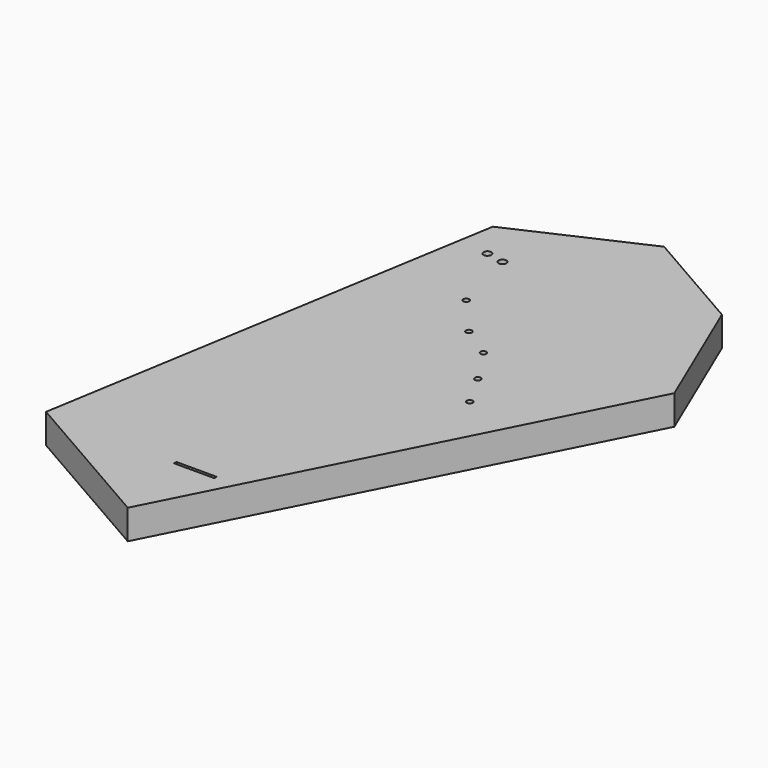
from build123d import *

# Parameters (mm, degrees)
PAD_DEPTH    = 50
SKETCH_R     = 5
SKETCH_R_2   = 6.604591
SKETCH_W     = 68
SKETCH_H     = 5
POCKET_DEPTH = 50.001


with BuildPart() as part:
    # Sketch001 → Pad (new body)
    with BuildSketch(Plane.XY):
        Polygon((21.658416, -142.396888), (380.553462, 564.152424), (289.232679, 778.86121), (108.359877, 882.789603), (-104.030099, 786.198474), (-233.87883, 4.433233), align=None)
    extrude(amount=-PAD_DEPTH)

    # Sketch (on Face7 of Pad) → Pocket (cut, through all)
    with BuildSketch(Plane.XY):
        with Locations((0, 600)):
            Circle(SKETCH_R)
        with Locations((58.588821, 532.512666)):
            Circle(SKETCH_R)
        with Locations((111.61367, 496.881813)):
            Circle(SKETCH_R)
        with Locations((152.341802, 434.193515)):
            Circle(SKETCH_R)
        with Locations((184.96974, 376.321267)):
            Circle(SKETCH_R)
        with Locations((-31.108797, 715.687506)):
            Circle(SKETCH_R_2)
        with Locations((-61.54211, 721.87355)):
            Circle(SKETCH_R_2)
        with Locations((24, -2.5)):
            Rectangle(SKETCH_W, SKETCH_H)
    extrude(amount=-POCKET_DEPTH, mode=Mode.SUBTRACT)


solid = part.part
